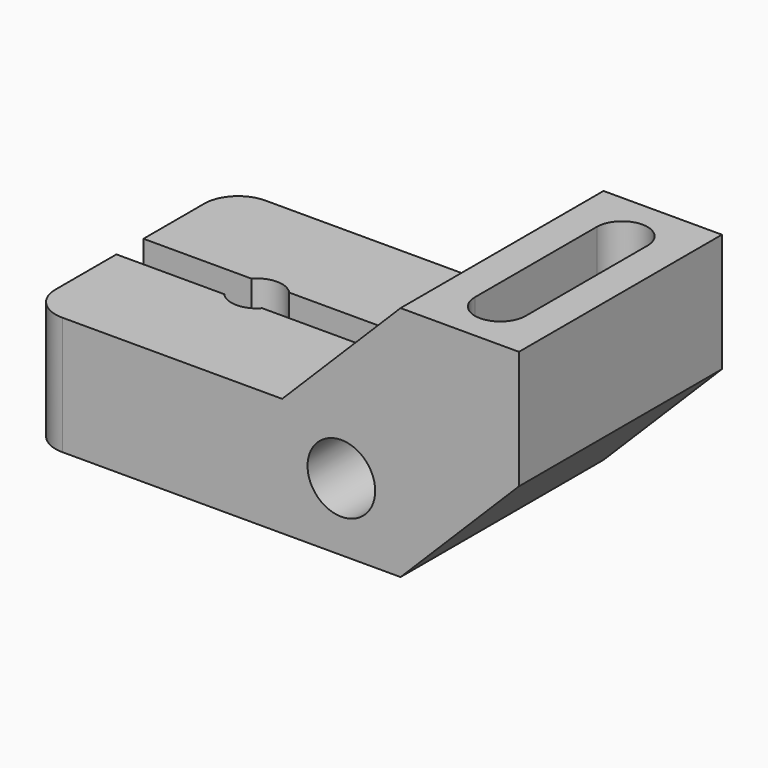
from build123d import *

# Parameters (mm, degrees)
F1_DEPTH  = 76.2
F2_R      = 10.16
F3_R      = 10.16
F4_DEPTH  = 76.201
F6_DEPTH  = 27.94
F7_W      = 76.2
F7_H      = 10.16
F8_DEPTH  = 10.16
F9_R      = 7.62
F9_R_2    = 3.175
F10_DEPTH = 10.16
F11_DEPTH = 4.064


with BuildPart() as f1:
    # F0 (on Front) → F1 (new body)
    with BuildSketch(Plane.XZ):
        Polygon((0, 35.56), (0, 0), (111.76, 0), (147.32, 35.56), (147.32, 71.12), (111.76, 71.12), (76.2, 35.56), align=None)
    extrude(amount=F1_DEPTH)

    # F2
    f2_edges = [f1.edges().sort_by_distance(p)[0] for p in [
        (0, -76.2, 17.78),
        (0, 0, 17.78),
    ]]
    fillet(f2_edges, radius=F2_R)

    # F3 (on face) → F4 (cut, through all)
    with BuildSketch(Plane.XZ):
        with Locations((93.98, 20.32)):
            Circle(F3_R)
    extrude(amount=F4_DEPTH, mode=Mode.SUBTRACT)

    # F5 (on face) → F6 (cut)
    with BuildSketch(Plane.XY.offset(71.12)):
        with BuildLine():
            ThreePointArc((137.16, -15.24), (129.54, -7.62), (121.92, -15.24))
            Line((121.92, -15.24), (121.92, -60.96))
            ThreePointArc((121.92, -60.96), (129.54, -68.58), (137.16, -60.96))
            Line((137.16, -60.96), (137.16, -15.24))
        make_face()
    extrude(amount=-F6_DEPTH, mode=Mode.SUBTRACT)

    # F7 (on face) → F8 (cut)
    with BuildSketch(Plane.XY.offset(35.56)):
        with Locations((38.1, -38.1)):
            Rectangle(F7_W, F7_H)
    extrude(amount=-F8_DEPTH, mode=Mode.SUBTRACT)

    # F9 (on face) → F10 (cut)
    with BuildSketch(Plane.XY.offset(35.56)):
        with Locations((38.1, -38.1)):
            Circle(F9_R)
        with Locations((38.1, -38.1)):
            Circle(F9_R_2, mode=Mode.SUBTRACT)
    extrude(amount=-F10_DEPTH, mode=Mode.SUBTRACT)

    # F9 (on face) + F10_face (on face) → F11 (cut)
    with BuildSketch(Plane.XY.offset(35.56)):
        with Locations((38.1, -38.1)):
            Circle(F9_R)
        with Locations((38.1, -38.1)):
            Circle(F9_R_2, mode=Mode.SUBTRACT)
    with BuildSketch(Plane(origin=(38.1, -38.1, 25.4), x_dir=(1, 0, 0), z_dir=(0, 0, 1))):
        with BuildLine():
            Line((-38.1, -5.08), (-5.679613, -5.08))
            ThreePointArc((-5.679613, -5.08), (0, -7.62), (5.679613, -5.08))
            Line((5.679613, -5.08), (38.1, -5.08))
            Line((38.1, -5.08), (38.1, 5.08))
            Line((38.1, 5.08), (5.679613, 5.08))
            ThreePointArc((5.679613, 5.08), (0, 7.62), (-5.679613, 5.08))
            Line((-5.679613, 5.08), (-38.1, 5.08))
            Line((-38.1, 5.08), (-38.1, -5.08))
        make_face()
    extrude(amount=-F11_DEPTH, mode=Mode.SUBTRACT)


solid = f1.part
